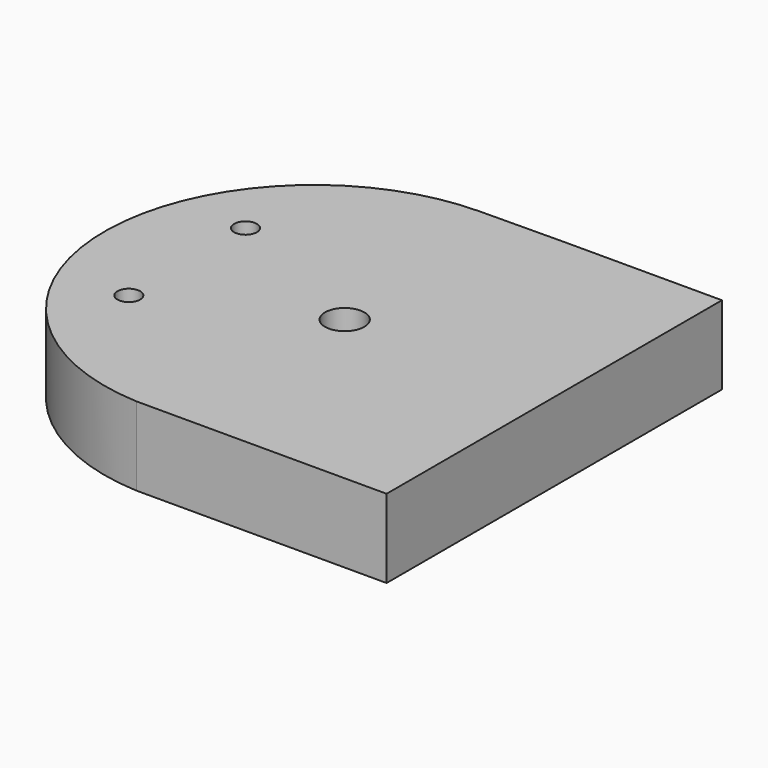
from build123d import *

# Parameters (mm, degrees)
F0_R     = 2.7559
F1_DEPTH = 19.05
F2_DEPTH = 12.7
F3_DEPTH = 25.4
F4_R     = 4.7625
F5_DEPTH = 19.051
F6_R     = 4.7625
F7_DEPTH = 7.9375


with BuildPart() as f1:
    # F0 (on Top) → F1 (new body)
    with BuildSketch(Plane.XY):
        with BuildLine():
            Line((-55.9988788353, 44.7037652499), (-76.5532134465, 44.4946135236))
            ThreePointArc((-76.5532134465, 44.4946135236), (-126.7555499575, -5.2172696713), (-78.5805513553, -56.8962347501))
            Line((-78.5805513553, -56.8962347501), (-55.9988788353, -56.8962347501))
            Line((-55.9988788353, -56.8962347501), (-55.9988788353, 44.7037652499))
        make_face()
        with Locations((-106.7988788353, -23.8762347501)):
            Circle(F0_R, mode=Mode.SUBTRACT)
        with Locations((-106.7988788353, 11.4746135236)):
            Circle(F0_R, mode=Mode.SUBTRACT)
    extrude(amount=F1_DEPTH)

    # F2 (add): a face of the model
    f2_faces = [f1.faces().sort_by_distance(p)[0] for p in [
        (-55.9988788353, -6.0962347501, 9.525),
    ]]
    extrude(f2_faces, amount=F2_DEPTH)

    # F3 (add): a face of the model
    f3_faces = [f1.faces().sort_by_distance(p)[0] for p in [
        (-43.2988788353, -6.0962347501, 9.525),
    ]]
    extrude(f3_faces, amount=F3_DEPTH)

    # F4 (on face) → F5 (cut, through all)
    with BuildSketch(Plane.XY.offset(19.05)):
        with Locations((-68.6988788353, -6.0962347501)):
            Circle(F4_R)
    extrude(amount=-F5_DEPTH, mode=Mode.SUBTRACT)

    # F6 (on face) → F7 (cut)
    with BuildSketch(Plane(origin=(0, 0, 0), x_dir=(1, 0, 0), z_dir=(0, 0, -1))):
        Polygon((-75.8616788353, 3.1293058456), (-71.6658077398, -1.0665652499), (-65.7102826454, -1.0665652499), (-61.5360788353, 3.1076385602), (-61.5360788353, 9.0631636547), (-65.7319499307, 13.2590347501), (-71.6658077398, 13.2590347501), (-75.8616788353, 9.0631636547), align=None)
        with Locations((-68.6988788353, 6.0962347501)):
            Circle(F6_R, mode=Mode.SUBTRACT)
    extrude(amount=-F7_DEPTH, mode=Mode.SUBTRACT)


solid = f1.part
